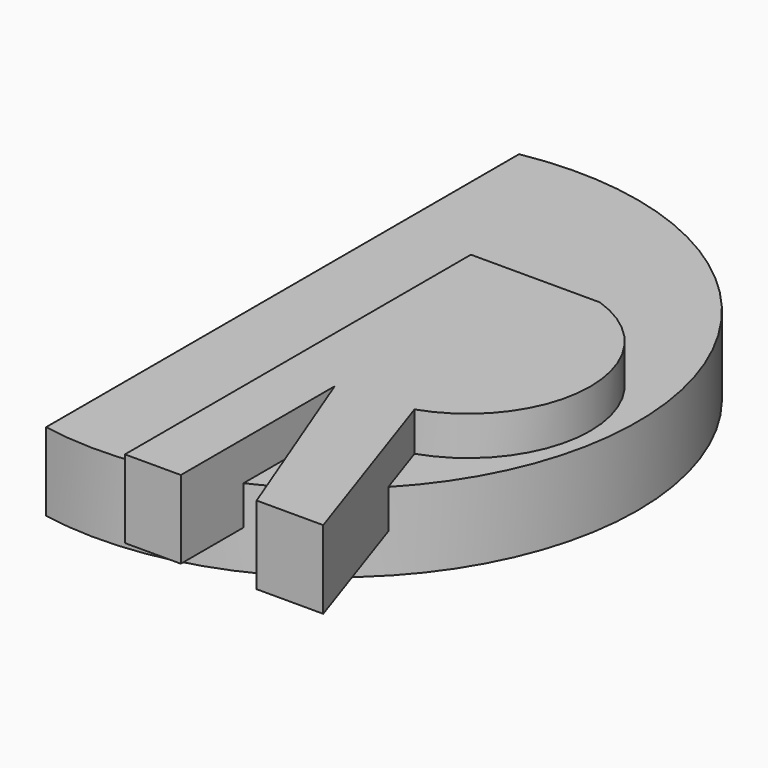
from build123d import *

# Parameters (mm, degrees)
F1_DEPTH = 10
F3_DEPTH = 5


with BuildPart() as f1:
    # F0 (on Top) → F1 (new body)
    with BuildSketch(Plane.XY):
        with BuildLine():
            ThreePointArc((-32.367062, -34.934983), (13.097109, 2.917569), (-32.367062, 40.770121))
            Line((-32.367062, 40.770121), (-32.367062, -34.934983))
        make_face()
    extrude(amount=F1_DEPTH)

    # F2 (on face) → F3 (join, symmetric)
    with BuildSketch(Plane.XY.offset(10)):
        with BuildLine():
            Line((0, 13.264815), (-16.528383, 13.264815))
            Line((-16.528383, 13.264815), (-16.528383, -42.110529))
            Line((-16.528383, -42.110529), (-9.369593, -42.110529))
            Line((-9.369593, -42.110529), (-9.369593, -17.47587))
            Line((-9.369593, -17.47587), (0, -41.689422))
            Line((0, -41.689422), (8.527383, -41.689422))
            Line((8.527383, -41.689422), (0, -16.423104))
            ThreePointArc((0, -16.423104), (10.641748, -1.579145), (0, 13.264815))
        make_face()
    extrude(amount=F3_DEPTH, both=True)


solid = f1.part
